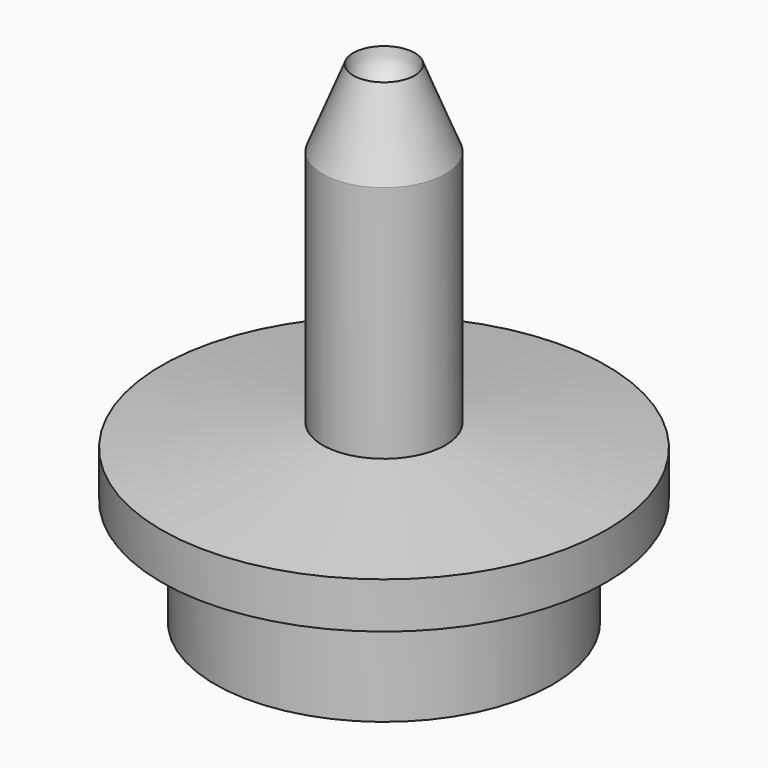
from build123d import *


with BuildPart() as f2:
    # F2: sweep along a path in F1
    with BuildLine(Plane.XY) as f2_path:
        CenterArc((0, 0), 2.5, 0, 360)
    # F0 (on Front) → F2 (sweep)
    with BuildSketch(Plane.XZ):
        with BuildLine():
            Line((-14.4997214687, 7.68362e-05), (-11, 7.68362e-05))
            Line((-11, 7.68362e-05), (-11, -6.9999231638))
            Line((-11, -6.9999231638), (-8, -6.9999231638))
            Line((-8, -6.9999231638), (-8, -3.9999615819))
            Line((-8, -3.9999615819), (0, -3.9999615819))
            Line((0, -3.9999615819), (0, 23.0000384181))
            ThreePointArc((0, 23.0000384181), (-1.4142135624, 23.5858248557), (-2, 25.0000384181))
            Line((-2, 25.0000384181), (-4, 20.0000384181))
            Line((-4, 20.0000384181), (-4, 4.4483142802))
            Line((-4, 4.4483142802), (-14.4997214687, 3.0000768362))
            Line((-14.4997214687, 3.0000768362), (-14.4997214687, 7.68362e-05))
        make_face()
    sweep(path=f2_path.line)


solid = f2.part
